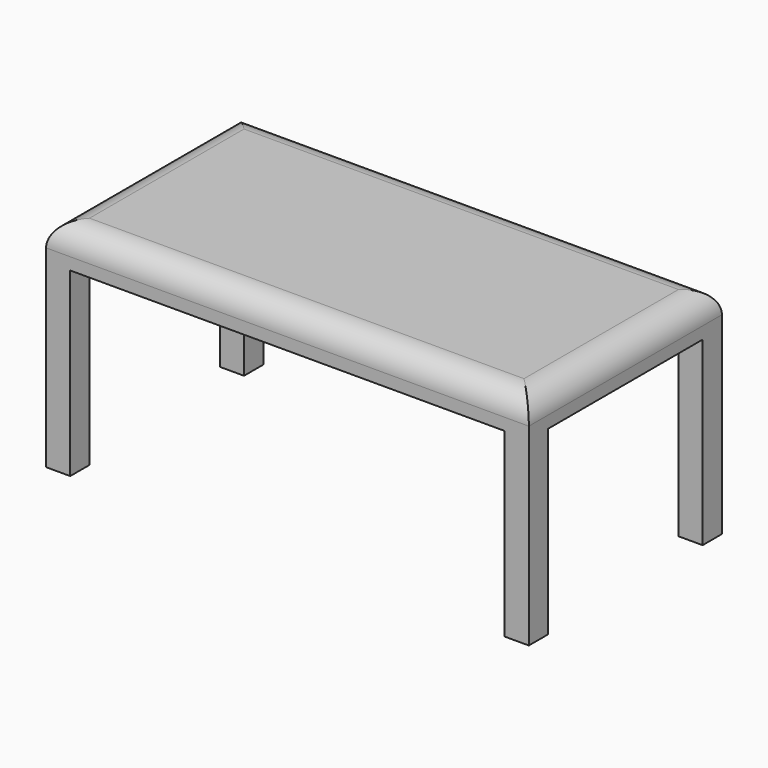
from build123d import *

# Parameters (mm, degrees)
F0_W     = 101.6
F0_H     = 50.8
F1_DEPTH = 7.62
F2_R     = 5.08
F3_W     = 5.08
F3_H     = 5.08
F4_DEPTH = 38.1


with BuildPart() as f1:
    # F0 (on Top) → F1 (new body)
    with BuildSketch(Plane.XY):
        with Locations((-9.186735, -12.039736)):
            Rectangle(F0_W, F0_H)
    extrude(amount=F1_DEPTH)

    # F2
    f2_edges = [f1.edges().sort_by_distance(p)[0] for p in [
        (-9.186735, -37.439736, 7.62),
        (-59.986735, -12.039736, 7.62),
        (-9.186735, 13.360264, 7.62),
        (41.613265, -12.039736, 7.62),
    ]]
    fillet(f2_edges, radius=F2_R)

    # F3 (on face) → F4 (join)
    with BuildSketch(Plane(origin=(0, 0, 0), x_dir=(1, 0, 0), z_dir=(0, 0, -1))):
        with Locations((39.073265, -10.820264)):
            Rectangle(F3_W, F3_H)
        with Locations((39.073265, 34.899736)):
            Rectangle(F3_W, F3_H)
        with Locations((-57.446735, -10.820264)):
            Rectangle(F3_W, F3_H)
        with Locations((-57.446735, 34.899736)):
            Rectangle(F3_W, F3_H)
    extrude(amount=F4_DEPTH)


solid = f1.part
